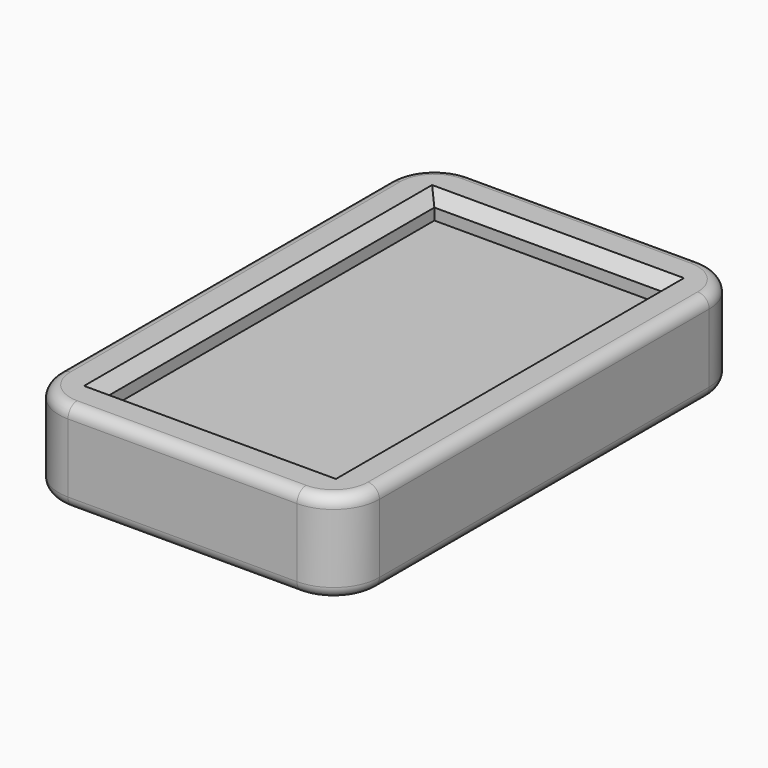
from build123d import *

# Parameters (mm, degrees)
F0_W     = 6
F0_H     = 10
F1_DEPTH = 1
F2_R     = 0.5
F7_R     = 0.25
F8_SIZE  = 0.25


with BuildPart() as f1:
    # F0 (on Top) → F1 (new body)
    with BuildSketch(Plane.XY):
        with Locations((3, 5)):
            Rectangle(F0_W, F0_H)
    extrude(amount=F1_DEPTH)

    # F2
    f2_edges = [f1.edges().sort_by_distance(p)[0] for p in [
        (6, 0, 0.5),
        (6, 10, 0.5),
        (0, 0, 0.5),
        (0, 10, 0.5),
    ]]
    fillet(f2_edges, radius=F2_R)

    # F6: sweep along a path in F5
    with BuildLine(Plane.XY.offset(1)) as f6_path:
        ThreePointArc((5.5, 0), (5.8535533906, 0.1464466094), (6, 0.5))
        Line((6, 0.5), (6, 9.5))
        ThreePointArc((6, 9.5), (5.8535533906, 9.8535533906), (5.5, 10))
        Line((5.5, 10), (0.5, 10))
        ThreePointArc((0.5, 10), (0.1464466094, 9.8535533906), (0, 9.5))
        Line((0, 9.5), (0, 0.5))
        ThreePointArc((0, 0.5), (0.1464466094, 0.1464466094), (0.5, 0))
        Line((0.5, 0), (5.5, 0))
    # F4 (on offset) → F6 (sweep)
    with BuildSketch(Plane.XZ.offset(-0.5)):
        Polygon((6, 1), (6, 0), (5.5, 0), (5.5, -0.5), (6.5, -0.5), (6.5, 1.5), (5.5, 1.5), (5.5, 1), align=None)
    sweep(path=f6_path.line)

    # F7
    f7_edges = [f1.edges().sort_by_distance(p)[0] for p in [
        (-0.5, 5, 1.5),
        (3, -0.5, -0.5),
    ]]
    fillet(f7_edges, radius=F7_R)

    # F8
    f8_edges = [f1.edges().sort_by_distance(p)[0] for p in [
        (0.5, 5, 1.5),
        (3, 9.5, 1.5),
        (5.5, 5, 1.5),
        (3, 0.5, 1.5),
        (0.5, 5, -0.5),
        (3, 0.5, -0.5),
        (5.5, 5, -0.5),
        (3, 9.5, -0.5),
    ]]
    chamfer(f8_edges, length=F8_SIZE)


solid = f1.part
